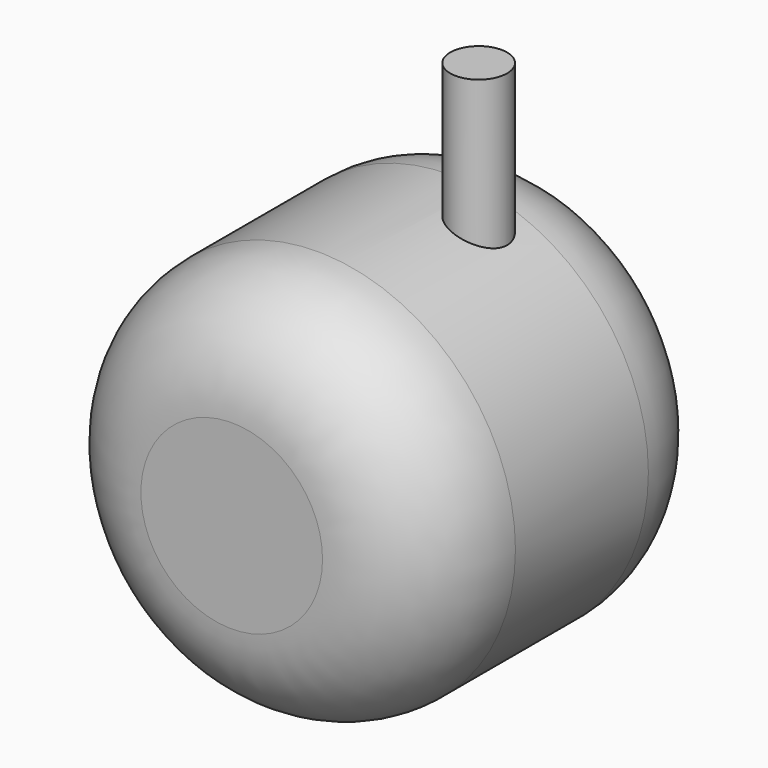
from build123d import *

# Parameters (mm, degrees)
F0_R     = 19.8247
F1_DEPTH = 38.1
F2_R     = 10.731179
F3_R     = 2.8448
F4_DEPTH = 49.53


with BuildPart() as f1:
    # F0 (on Front) → F1 (new body)
    with BuildSketch(Plane.XZ):
        with Locations((-19.473333, 16.51)):
            Circle(F0_R)
    extrude(amount=F1_DEPTH)

    # F2
    f2_edges = [f1.edges().sort_by_distance(p)[0] for p in [
        (-39.298033, -38.1, 16.51),
        (-39.298033, 0, 16.51),
    ]]
    fillet(f2_edges, radius=F2_R)

    # F3 (on Top) → F4 (join)
    with BuildSketch(Plane.XY):
        with Locations((-13.739159, -14.360067)):
            Circle(F3_R)
    extrude(amount=F4_DEPTH)


solid = f1.part
